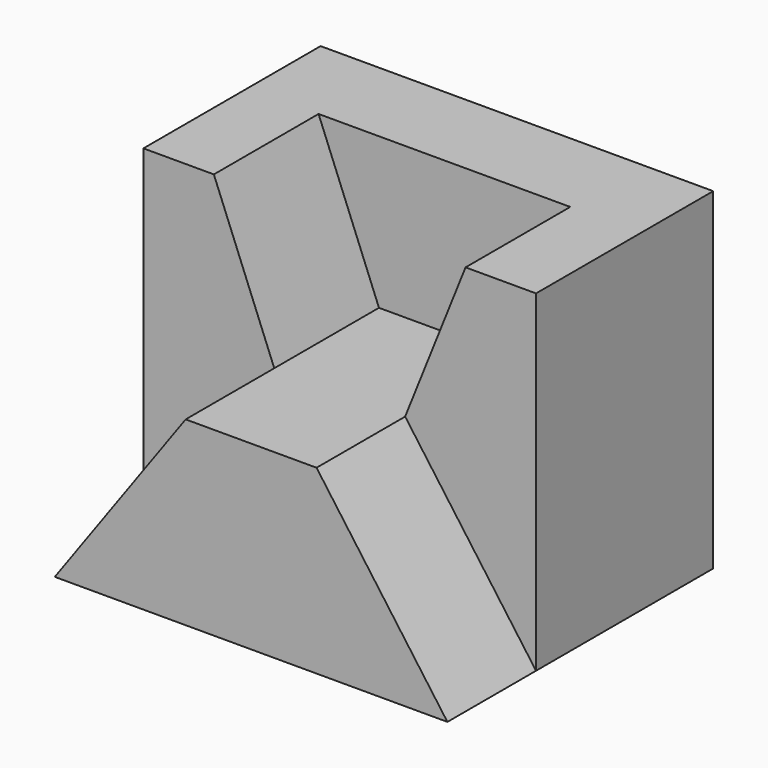
from build123d import *

# Parameters (mm, degrees)
F1_DEPTH = 33
F2_DEPTH = 11
F3_DEPTH = 24


with BuildPart() as f1:
    # F0 (on Front) → F1 (new body)
    with BuildSketch(Plane.XZ):
        Polygon((13, 18), (0, 0), (39, 0), (26, 18), align=None)
        Polygon((0, 33), (0, 0), (13, 18), (7, 33), align=None)
        Polygon((26, 18), (39, 0), (39, 33), (32, 33), align=None)
        Polygon((7, 33), (13, 18), (26, 18), (32, 33), align=None)
    extrude(amount=-F1_DEPTH)

    # F0 (on Front) → F2 (cut)
    with BuildSketch(Plane.XZ):
        Polygon((0, 33), (0, 0), (13, 18), (7, 33), align=None)
        Polygon((7, 33), (13, 18), (26, 18), (32, 33), align=None)
        Polygon((26, 18), (39, 0), (39, 33), (32, 33), align=None)
    extrude(amount=-F2_DEPTH, mode=Mode.SUBTRACT)

    # F0 (on Front) → F3 (cut)
    with BuildSketch(Plane.XZ):
        Polygon((7, 33), (13, 18), (26, 18), (32, 33), align=None)
    extrude(amount=-F3_DEPTH, mode=Mode.SUBTRACT)


solid = f1.part
